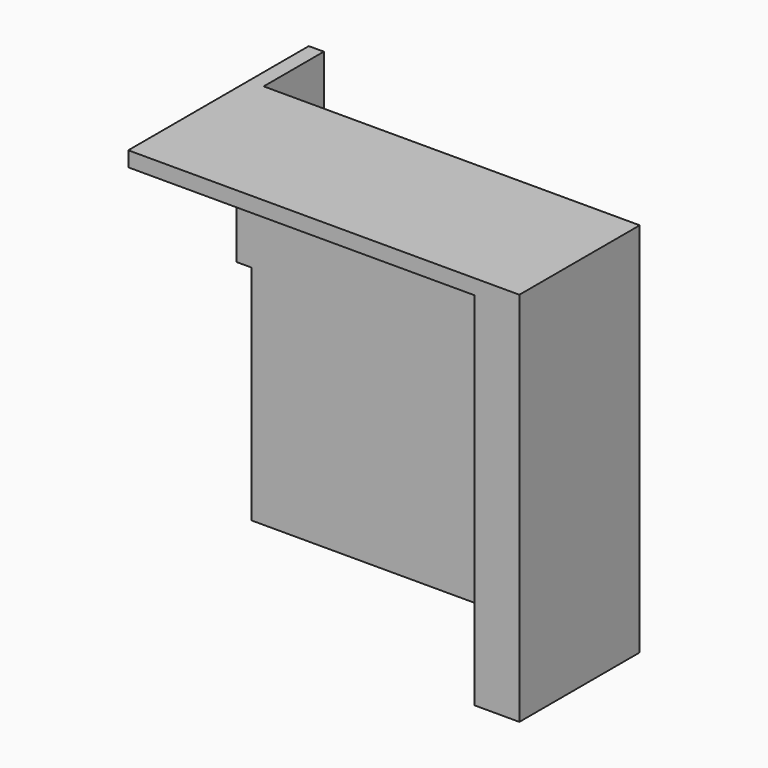
from build123d import *

# Parameters (mm, degrees)
F0_W      = 82.55
F0_H      = 76.2
F1_DEPTH  = 31.75
F2_W      = 79.375
F2_H      = 28.575
F3_DEPTH  = 101.6
F4_W      = 9.525
F4_H      = 76.2
F5_DEPTH  = 3.175
F7_DEPTH  = 3.175
F8_W      = 19.05
F8_H      = 79.375
F9_DEPTH  = 3.175
F10_W     = 19.05
F10_H     = 46.99
F11_DEPTH = 3.175


with BuildPart() as f1:
    # F0 (on Front) → F1 (new body)
    with BuildSketch(Plane.XZ):
        with Locations((-0.640342, 4.763107)):
            Rectangle(F0_W, F0_H)
    extrude(amount=F1_DEPTH)

    # F2 (on face) → F3 (cut)
    with BuildSketch(Plane.XY.offset(42.863107)):
        with Locations((-2.227842, -17.4625)):
            Rectangle(F2_W, F2_H)
    extrude(amount=-F3_DEPTH, mode=Mode.SUBTRACT)

    # F4 (on face) → F5 (join)
    with BuildSketch(Plane.XZ.offset(31.75)):
        with Locations((35.872158, 4.763107)):
            Rectangle(F4_W, F4_H)
    extrude(amount=-F5_DEPTH)

    # F6 (on face) → F7 (join)
    with BuildSketch(Plane.XY.offset(42.863107)):
        Polygon((40.634658, -31.75), (40.634658, 0), (-41.915342, 0), (-41.915342, -3.175), (-41.915342, -31.75), align=None)
        Polygon((40.634658, -31.75), (40.634658, 0), (-41.915342, 0), (-41.915342, -3.175), (-41.915342, -31.75), align=None)
    extrude(amount=F7_DEPTH)

    # F8 (on face) → F9 (join)
    with BuildSketch(Plane(origin=(-41.915342, 0, 0), x_dir=(0, -1, 0), z_dir=(-1, 0, 0))):
        with Locations((-6.35, 6.350607)):
            Rectangle(F8_W, F8_H)
    extrude(amount=-F9_DEPTH)

    # F10 (on face) → F11 (cut)
    with BuildSketch(Plane(origin=(-41.915342, 0, 0), x_dir=(0, -1, 0), z_dir=(-1, 0, 0))):
        with Locations((-6.35, -9.841893)):
            Rectangle(F10_W, F10_H)
    extrude(amount=-F11_DEPTH, mode=Mode.SUBTRACT)


solid = f1.part
